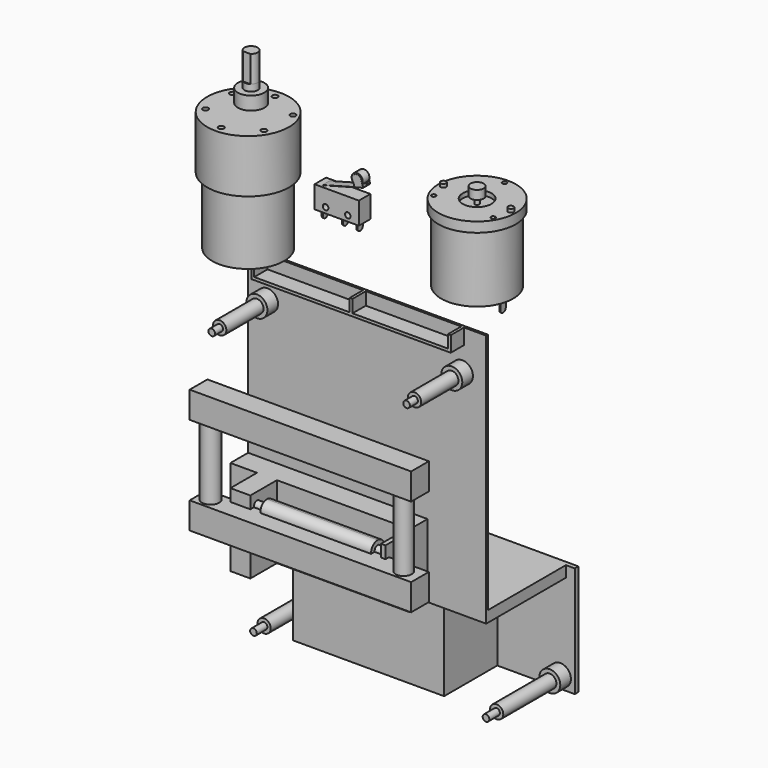
from build123d import *

# Parameters (mm, degrees)
SKETCH_W        = 20
SKETCH_H        = 10
SKETCH_R        = 1.25
PAD_DEPTH       = 6.5
SKETCH001_W     = 19
SKETCH001_H     = 4
PAD001_DEPTH    = 0.1
SKETCH002_W     = 4
SKETCH002_H     = 0.1
PAD002_DEPTH    = 5
FILLET_R        = 1.99
SKETCH003_R     = 2.5
PAD003_DEPTH    = 3.8
SKETCH004_W     = 0.5
SKETCH004_H     = 3
PAD004_DEPTH    = 4
FILLET001_R     = 1.49
SKETCH005_R     = 17.5
PAD005_DEPTH    = 4.5
SKETCH006_R     = 16.25
PAD006_DEPTH    = 30
SKETCH007_R     = 4.5
PAD007_DEPTH    = 4
SKETCH008_W     = 0.5
SKETCH008_H     = 3
PAD008_DEPTH    = 7
FILLET002_R     = 1.4
SKETCH009_R     = 1.25
PAD009_DEPTH    = 1.5
SKETCH010_R     = 1
POCKET_DEPTH    = 4.5
SKETCH011_R     = 6.5
POCKET001_DEPTH = 2
SKETCH012_R     = 1
PAD010_DEPTH    = 7
SKETCH013_R     = 3
PAD011_DEPTH    = 4
SKETCH014_R     = 16.25
PAD012_DEPTH    = 30
SKETCH015_R     = 18.5
PAD013_DEPTH    = 24
SKETCH016_R     = 1.25
POCKET002_DEPTH = 4
SKETCH017_R     = 6
PAD014_DEPTH    = 6
SKETCH018_R     = 3
PAD015_DEPTH    = 3
PAD016_DEPTH    = 12
SKETCH021_W     = 107.5
SKETCH021_H     = 114.5
PAD017_DEPTH    = 1
PAD018_DEPTH    = 7.5
SKETCH022_R     = 4.75
PAD019_DEPTH    = 6
SKETCH023_R     = 3
PAD020_DEPTH    = 21
SKETCH024_R     = 1.5
PAD021_DEPTH    = 4.5
SKETCH025_W     = 81
SKETCH025_H     = 33
PAD022_DEPTH    = 10
PAD023_DEPTH    = 15
SKETCH027_W     = 59
SKETCH027_H     = 2.5
PAD024_DEPTH    = 14
SKETCH028_R     = 1.75
PAD025_DEPTH    = 4.5
SKETCH029_R     = 3.75
PAD026_DEPTH    = 50
SKETCH030_R     = 1.75
PAD027_DEPTH    = 4.5
SKETCH031_W     = 107.5
SKETCH031_H     = 5
PAD028_DEPTH    = 44
SKETCH032_W     = 115.5
SKETCH032_H     = 50
PAD029_DEPTH    = 2
SKETCH033_R     = 4.75
PAD030_DEPTH    = 6
SKETCH034_R     = 3
PAD031_DEPTH    = 30
SKETCH035_R     = 1.5
PAD032_DEPTH    = 6
SKETCH036_W     = 68.25
SKETCH036_H     = 45
PAD033_DEPTH    = 30
SKETCH038_W     = 100
SKETCH038_H     = 10
PAD034_DEPTH    = 12
SKETCH037_R     = 3.901932
SKETCH037_R_2   = 3.629919
PAD035_DEPTH    = 44
SKETCH039_W     = 100
SKETCH039_H     = 10
PAD036_DEPTH    = 12


with BuildPart() as obj1:
    # Sketch → Pad (new body)
    with BuildSketch(Plane.XZ):
        with Locations((10, 5)):
            Rectangle(SKETCH_W, SKETCH_H)
        with Locations((5, 2.5)):
            Circle(SKETCH_R, mode=Mode.SUBTRACT)
        with Locations((15, 2.5)):
            Circle(SKETCH_R, mode=Mode.SUBTRACT)
    extrude(amount=PAD_DEPTH)

    # Sketch001 (on Face3 of Pad) → Pad001 (join)
    with BuildSketch(Plane(origin=(2.5, 1.5, 10), x_dir=(-0.965926, 0, -0.258819), z_dir=(-0.258819, 0, 0.965926))):
        with Locations((-9.5, 4.728916)):
            Rectangle(SKETCH001_W, SKETCH001_H)
    extrude(amount=-PAD001_DEPTH)

    # Sketch002 (on Face12 of Pad001) → Pad002 (join)
    with BuildSketch(Plane(origin=(-2.332532, 0, 8.705127), x_dir=(-0.965926, 0, -0.258819), z_dir=(-0.258819, 0, 0.965926))):
        with Locations((-22.003005, 5.178916)):
            Rectangle(SKETCH002_W, SKETCH002_H)
        with Locations((-22.003005, 1.278916)):
            Rectangle(SKETCH002_W, SKETCH002_H)
    extrude(amount=PAD002_DEPTH)

    # Fillet
    fillet_edges = [obj1.edges().sort_by_distance(p)[0] for p in [
        (19.558495, -5.178916, 19.747191),
        (15.694792, -5.178916, 18.711915),
        (15.694792, -1.278916, 18.711915),
        (19.558495, -1.278916, 19.747191),
    ]]
    fillet(fillet_edges, radius=FILLET_R)

    # Sketch003 (on Face5 of Fillet) → Pad003 (join)
    with BuildSketch(Plane.XZ.offset(1.328916)):
        with Locations((18.132034, 17.304772)):
            Circle(SKETCH003_R)
    extrude(amount=PAD003_DEPTH)

    # Sketch004 (on Face24 of Pad003) → Pad004 (join)
    with BuildSketch(Plane(origin=(0, 0, 0), x_dir=(1, 0, 0), z_dir=(0, 0, -1))):
        with Locations((17.75, 3.25)):
            Rectangle(SKETCH004_W, SKETCH004_H)
        with Locations((11.25, 3.25)):
            Rectangle(SKETCH004_W, SKETCH004_H)
        with Locations((2.05, 3.25)):
            Rectangle(SKETCH004_W, SKETCH004_H)
    extrude(amount=PAD004_DEPTH)

    # Fillet001
    fillet001_edges = [obj1.edges().sort_by_distance(p)[0] for p in [
        (2.05, -4.75, -4),
        (2.05, -1.75, -4),
        (11.25, -4.75, -4),
        (11.25, -1.75, -4),
        (17.75, -4.75, -4),
        (17.75, -1.75, -4),
    ]]
    fillet(fillet001_edges, radius=FILLET001_R)


with BuildPart() as obj1_1:
    # Body placement: moved
    add(obj1.part.moved(Location((0, 44, 0))))


with BuildPart() as obj2:
    # Sketch005 → Pad005 (new body)
    with BuildSketch(Plane.XY):
        Circle(SKETCH005_R)
    extrude(amount=PAD005_DEPTH)

    # Sketch006 (on Face2 of Pad005) → Pad006 (join)
    with BuildSketch(Plane(origin=(0, 0, 0), x_dir=(1, 0, 0), z_dir=(0, 0, -1))):
        Circle(SKETCH006_R)
    extrude(amount=PAD006_DEPTH)

    # Sketch007 (on Face5 of Pad006) → Pad007 (join)
    with BuildSketch(Plane(origin=(0, 0, -30), x_dir=(1, 0, 0), z_dir=(0, 0, -1))):
        Circle(SKETCH007_R)
    extrude(amount=PAD007_DEPTH)

    # Sketch008 (on Face5 of Pad007) → Pad008 (join)
    with BuildSketch(Plane(origin=(0, 0, -30), x_dir=(1, 0, 0), z_dir=(0, 0, -1))):
        with Locations((11.5, 0)):
            Rectangle(SKETCH008_W, SKETCH008_H)
        with Locations((-11.5, 0)):
            Rectangle(SKETCH008_W, SKETCH008_H)
    extrude(amount=PAD008_DEPTH)

    # Fillet002
    fillet002_edges = [obj2.edges().sort_by_distance(p)[0] for p in [
        (11.5, -1.5, -37),
        (11.5, 1.5, -37),
        (-11.5, 1.5, -37),
        (-11.5, -1.5, -37),
    ]]
    fillet(fillet002_edges, radius=FILLET002_R)

    # Sketch009 (on Face21 of Fillet002) → Pad009 (join)
    with BuildSketch(Plane.XY.offset(4.5)):
        with Locations((-15.25, 0)):
            Circle(SKETCH009_R)
        with Locations((15.25, 0)):
            Circle(SKETCH009_R)
    extrude(amount=PAD009_DEPTH)

    # Sketch010 (on Face21 of Pad009) → Pocket (cut)
    with BuildSketch(Plane.XY.offset(4.5)):
        with Locations((0, 15.5)):
            Circle(SKETCH010_R)
        with Locations((-13.423394, -7.75)):
            Circle(SKETCH010_R)
        with Locations((13.423394, -7.75)):
            Circle(SKETCH010_R)
    extrude(amount=-POCKET_DEPTH, mode=Mode.SUBTRACT)

    # Sketch011 (on Face27 of Pocket) → Pocket001 (cut)
    with BuildSketch(Plane.XY.offset(4.5)):
        Circle(SKETCH011_R)
    extrude(amount=-POCKET001_DEPTH, mode=Mode.SUBTRACT)

    # Sketch012 (on Face32 of Pocket001) → Pad010 (join)
    with BuildSketch(Plane.XY.offset(2.5)):
        Circle(SKETCH012_R)
    extrude(amount=PAD010_DEPTH)

    # Sketch013 (on Face35 of Pad010) → Pad011 (join)
    with BuildSketch(Plane.XY.offset(9.5)):
        Circle(SKETCH013_R)
    extrude(amount=-PAD011_DEPTH)


with BuildPart() as obj2_1:
    # Body001 placement: moved
    add(obj2.part.moved(Location((45, 73, 0))))


with BuildPart() as obj3:
    # Sketch014 → Pad012 (new body)
    with BuildSketch(Plane.XY):
        Circle(SKETCH014_R)
    extrude(amount=PAD012_DEPTH)

    # Sketch015 (on Face3 of Pad012) → Pad013 (join)
    with BuildSketch(Plane.XY.offset(30)):
        Circle(SKETCH015_R)
    extrude(amount=PAD013_DEPTH)

    # Sketch016 (on Face5 of Pad013) → Pocket002 (cut)
    with BuildSketch(Plane.XY.offset(54)):
        with Locations((-13.14747, 7.590696)):
            Circle(SKETCH016_R)
        with Locations((-13.14747, -7.590696)):
            Circle(SKETCH016_R)
        with Locations((13.14747, -7.590696)):
            Circle(SKETCH016_R)
        with Locations((0, 15.181391)):
            Circle(SKETCH016_R)
        with Locations((13.853779, 7.998483)):
            Circle(SKETCH016_R)
        with Locations((0, -15.181391)):
            Circle(SKETCH016_R)
    extrude(amount=-POCKET002_DEPTH, mode=Mode.SUBTRACT)

    # Sketch017 (on Face5 of Pocket002) → Pad014 (join)
    with BuildSketch(Plane(origin=(0, 0, 54), x_dir=(0.866025, 0.5, 0), z_dir=(0, 0, 1))):
        with Locations((0, 7)):
            Circle(SKETCH017_R)
    extrude(amount=PAD014_DEPTH)

    # Sketch018 (on Face17 of Pad014) → Pad015 (join)
    with BuildSketch(Plane.XY.offset(60)):
        with Locations((-3.5, 6.062178)):
            Circle(SKETCH018_R)
    extrude(amount=PAD015_DEPTH)

    # Sketch019 (on Face21 of Pad015) → Pad016 (join)
    with BuildSketch(Plane.XY.offset(63)):
        with BuildLine():
            Line((-5.158312, 3.562178), (-1.841688, 3.562178))
            ThreePointArc((-1.841688, 3.562178), (-3.5, 9.062178), (-5.158312, 3.562178))
        make_face()
    extrude(amount=PAD016_DEPTH)


with BuildPart() as obj4:
    # Sketch021 → Pad017 (new body)
    with BuildSketch(Plane.XZ):
        with Locations((53.75, -57.25)):
            Rectangle(SKETCH021_W, SKETCH021_H)
    extrude(amount=-PAD017_DEPTH)

    # Sketch020 (on Face5 of Pad017) → Pad018 (join)
    with BuildSketch(Plane.XZ):
        Polygon((97.5, 0), (96.25, 0), (96.25, -5.75), (53.125, -5.75), (53.125, 0), (51.875, 0), (51.875, -5.75), (8.75, -5.75), (8.75, 0), (7.5, 0), (7.5, -7), (97.5, -7), align=None)
    extrude(amount=PAD018_DEPTH)

    # Sketch022 (on Face8 of Pad018) → Pad019 (join)
    with BuildSketch(Plane.XZ):
        with Locations((8.75, -18)):
            Circle(SKETCH022_R)
        with Locations((96.75, -18)):
            Circle(SKETCH022_R)
    extrude(amount=PAD019_DEPTH)

    # Sketch023 (on Face21 of Pad019) → Pad020 (join)
    with BuildSketch(Plane.XZ.offset(6)):
        with Locations((8.75, -18)):
            Circle(SKETCH023_R)
        with Locations((96.75, -18)):
            Circle(SKETCH023_R)
    extrude(amount=PAD020_DEPTH)

    # Sketch024 (on Face25 of Pad020) → Pad021 (join)
    with BuildSketch(Plane.XZ.offset(27)):
        with Locations((8.75, -18)):
            Circle(SKETCH024_R)
        with Locations((96.75, -18)):
            Circle(SKETCH024_R)
    extrude(amount=PAD021_DEPTH)

    # Sketch025 (on Face10 of Pad021) → Pad022 (join)
    with BuildSketch(Plane.XZ):
        with Locations((40.5, -98)):
            Rectangle(SKETCH025_W, SKETCH025_H)
    extrude(amount=PAD022_DEPTH)

    # Sketch026 (on Face21 of Pad022) → Pad023 (join)
    with BuildSketch(Plane.XZ.offset(10)):
        Polygon((21, -81.5), (12, -81.5), (12, -114.5), (21, -114.5), (21, -99), (82, -99), (82, -81.5), (80, -81.5), (80, -96), (21, -96), align=None)
    extrude(amount=PAD023_DEPTH)

    # Sketch027 (on Face1 of Pad023) → Pad024 (join)
    with BuildSketch(Plane.XZ.offset(10)):
        with Locations((50.5, -91.75)):
            Rectangle(SKETCH027_W, SKETCH027_H)
    extrude(amount=PAD024_DEPTH)

    # Sketch028 (on Face5 of Pad024) → Pad025 (join)
    with BuildSketch(Plane(origin=(21, 0, 0), x_dir=(0, 0, 1), z_dir=(1, 0, 0))):
        with Locations((-86.75, 21.25)):
            Circle(SKETCH028_R)
    extrude(amount=PAD025_DEPTH)

    # Sketch029 (on Face22 of Pad025) → Pad026 (join)
    with BuildSketch(Plane(origin=(25.5, 0, 0), x_dir=(0, 0, 1), z_dir=(1, 0, 0))):
        with Locations((-86.75, 21.25)):
            Circle(SKETCH029_R)
    extrude(amount=PAD026_DEPTH)

    # Sketch030 (on Face52 of Pad026) → Pad027 (join)
    with BuildSketch(Plane(origin=(75.5, 0, 0), x_dir=(0, 0, 1), z_dir=(1, 0, 0))):
        with Locations((-86.75, 21.25)):
            Circle(SKETCH030_R)
    extrude(amount=PAD027_DEPTH)

    # Sketch031 (on Face25 of Pad027) → Pad028 (join)
    with BuildSketch(Plane(origin=(0, 1, 0), x_dir=(1, 0, 0), z_dir=(0, 1, 0))):
        with Locations((53.75, 112)):
            Rectangle(SKETCH031_W, SKETCH031_H)
    extrude(amount=PAD028_DEPTH)

    # Sketch032 (on Face42 of Pad028) → Pad029 (join)
    with BuildSketch(Plane(origin=(0, 45, 0), x_dir=(1, 0, 0), z_dir=(0, 1, 0))):
        with Locations((53.75, 134.5)):
            Rectangle(SKETCH032_W, SKETCH032_H)
    extrude(amount=PAD029_DEPTH)

    # Sketch033 (on Face25 of Pad029) → Pad030 (join)
    with BuildSketch(Plane.XZ.offset(-45)):
        with Locations((0, -154)):
            Circle(SKETCH033_R)
        with Locations((105, -154)):
            Circle(SKETCH033_R)
    extrude(amount=PAD030_DEPTH)

    # Sketch034 (on Face54 of Pad030) → Pad031 (join)
    with BuildSketch(Plane.XZ.offset(-39)):
        with Locations((105, -154)):
            Circle(SKETCH034_R)
        with Locations((0, -154)):
            Circle(SKETCH034_R)
    extrude(amount=PAD031_DEPTH)

    # Sketch035 (on Face64 of Pad031) → Pad032 (join)
    with BuildSketch(Plane.XZ.offset(-9)):
        with Locations((0, -154)):
            Circle(SKETCH035_R)
        with Locations((105, -154)):
            Circle(SKETCH035_R)
    extrude(amount=PAD032_DEPTH)

    # Sketch036 (on Face25 of Pad032) → Pad033 (join)
    with BuildSketch(Plane.XZ.offset(-45)):
        with Locations((42.375, -137)):
            Rectangle(SKETCH036_W, SKETCH036_H)
    extrude(amount=PAD033_DEPTH)


with BuildPart() as obj5:
    # Sketch038 → Pad034 (new body)
    with BuildSketch(Plane.XY):
        with Locations((50, -5)):
            Rectangle(SKETCH038_W, SKETCH038_H)
    extrude(amount=PAD034_DEPTH)

    # Sketch037 → Pad035 (join)
    with BuildSketch(Plane.XY.offset(12)):
        with Locations((5.365014, -4.936639)):
            Circle(SKETCH037_R)
        with Locations((92.77475, -5.168021)):
            Circle(SKETCH037_R_2)
    extrude(amount=PAD035_DEPTH)

    # Sketch039 → Pad036 (join)
    with BuildSketch(Plane.XY.offset(56)):
        with Locations((50, -5)):
            Rectangle(SKETCH039_W, SKETCH039_H)
    extrude(amount=-PAD036_DEPTH)


with BuildPart() as obj5_1:
    # Body005 placement: moved
    add(obj5.part.moved(Location((0, -23, -99))))


solid = Compound([obj1_1.part, obj2_1.part, obj3.part, obj4.part, obj5_1.part])
